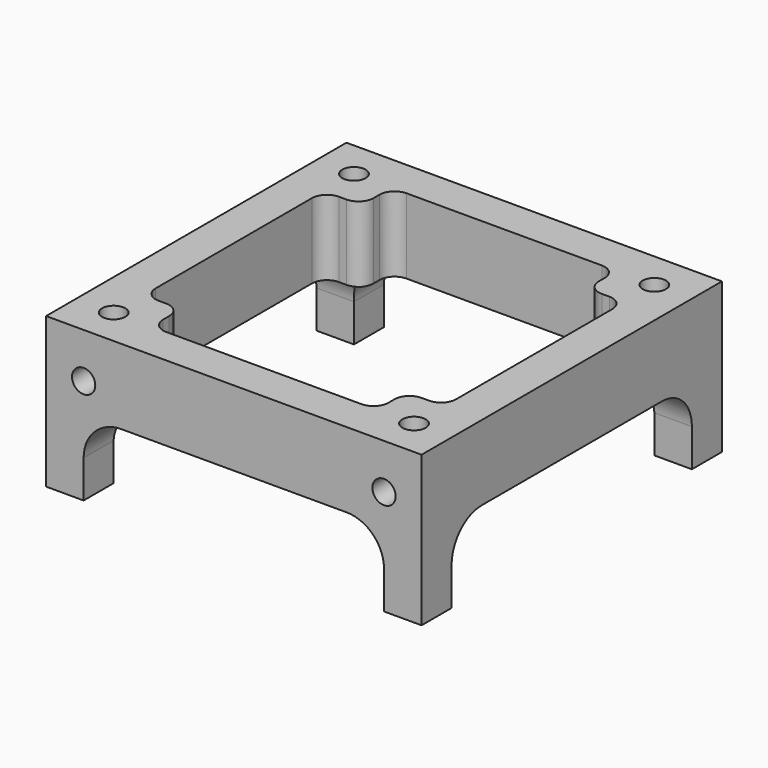
from build123d import *

# Parameters (mm, degrees)
SKETCH211_W     = 50
SKETCH211_H     = 50
PAD036_DEPTH    = 20
POCKET176_DEPTH = 20.001
POCKET177_DEPTH = 50.001
POCKET178_DEPTH = 50.001
SKETCH215_R     = 1.55
POCKET179_DEPTH = 5
SKETCH216_R     = 1.55
POCKET180_DEPTH = 3


with BuildPart() as part:
    # Sketch211 → Pad036 (new body)
    with BuildSketch(Plane.XY):
        Rectangle(SKETCH211_W, SKETCH211_H)
    extrude(amount=PAD036_DEPTH)

    # Sketch212 (on Face6 of Pad036) → Pocket176 (cut, through all)
    with BuildSketch(Plane.XY.offset(20)):
        with BuildLine():
            Line((-18, 15), (-17, 15))
            ThreePointArc((-17, 15), (-15.585786, 15.585786), (-15, 17))
            Line((-15, 17), (-15, 18))
            ThreePointArc((-13, 20), (-14.414214, 19.414214), (-15, 18))
            Line((-13, 20), (13, 20))
            ThreePointArc((15, 18), (14.414214, 19.414214), (13, 20))
            Line((15, 18), (15, 17))
            ThreePointArc((15, 17), (15.585786, 15.585786), (17, 15))
            Line((17, 15), (18, 15))
            ThreePointArc((20, 13), (19.414214, 14.414214), (18, 15))
            Line((20, 13), (20, -13))
            ThreePointArc((18, -15), (19.414214, -14.414214), (20, -13))
            Line((18, -15), (17, -15))
            ThreePointArc((17, -15), (15.585786, -15.585786), (15, -17))
            Line((15, -17), (15, -18))
            ThreePointArc((13, -20), (14.414214, -19.414214), (15, -18))
            Line((13, -20), (-13, -20))
            ThreePointArc((-15, -18), (-14.414214, -19.414214), (-13, -20))
            Line((-15, -18), (-15, -17))
            ThreePointArc((-15, -17), (-15.585786, -15.585786), (-17, -15))
            Line((-17, -15), (-18, -15))
            ThreePointArc((-20, -13), (-19.414214, -14.414214), (-18, -15))
            Line((-20, -13), (-20, 13))
            ThreePointArc((-18, 15), (-19.414214, 14.414214), (-20, 13))
        make_face()
    extrude(amount=-POCKET176_DEPTH, mode=Mode.SUBTRACT)

    # Sketch213 (on Face3 of Pocket176) → Pocket177 (cut, through all)
    with BuildSketch(Plane.YZ.offset(25)):
        with BuildLine():
            Line((-15, 10), (15, 10))
            ThreePointArc((20, 5), (18.535534, 8.535534), (15, 10))
            Line((20, 5), (20, 0))
            Line((20, 0), (-20, 0))
            Line((-20, 0), (-20, 5))
            ThreePointArc((-15, 10), (-18.535534, 8.535534), (-20, 5))
        make_face()
    extrude(amount=-POCKET177_DEPTH, mode=Mode.SUBTRACT)

    # Sketch214 (on Face6 of Pocket176) → Pocket178 (cut, through all)
    with BuildSketch(Plane.XZ.offset(25)):
        with BuildLine():
            Line((-15, 10), (15, 10))
            ThreePointArc((20, 5), (18.535534, 8.535534), (15, 10))
            Line((20, 5), (20, 0))
            Line((20, 0), (-20, 0))
            Line((-20, 0), (-20, 5))
            ThreePointArc((-15, 10), (-18.535534, 8.535534), (-20, 5))
        make_face()
    extrude(amount=-POCKET178_DEPTH, mode=Mode.SUBTRACT)

    # Sketch215 → Pocket179 (cut)
    with BuildSketch(Plane.XY.offset(20)):
        with Locations((-20, 20)):
            Circle(SKETCH215_R)
        with Locations((20, 20)):
            Circle(SKETCH215_R)
        with Locations((20, -20)):
            Circle(SKETCH215_R)
        with Locations((-20, -20)):
            Circle(SKETCH215_R)
    extrude(amount=-POCKET179_DEPTH, mode=Mode.SUBTRACT)

    # Sketch216 (on Face27 of Pocket179) → Pocket180 (cut)
    with BuildSketch(Plane.XZ.offset(25)):
        with Locations((-20, 14)):
            Circle(SKETCH216_R)
        with Locations((20, 14)):
            Circle(SKETCH216_R)
    extrude(amount=-POCKET180_DEPTH, mode=Mode.SUBTRACT)


with BuildPart() as part_1:
    # Body037 placement: moved
    add(part.part.moved(Location((85, 25, 0))))


solid = part_1.part
